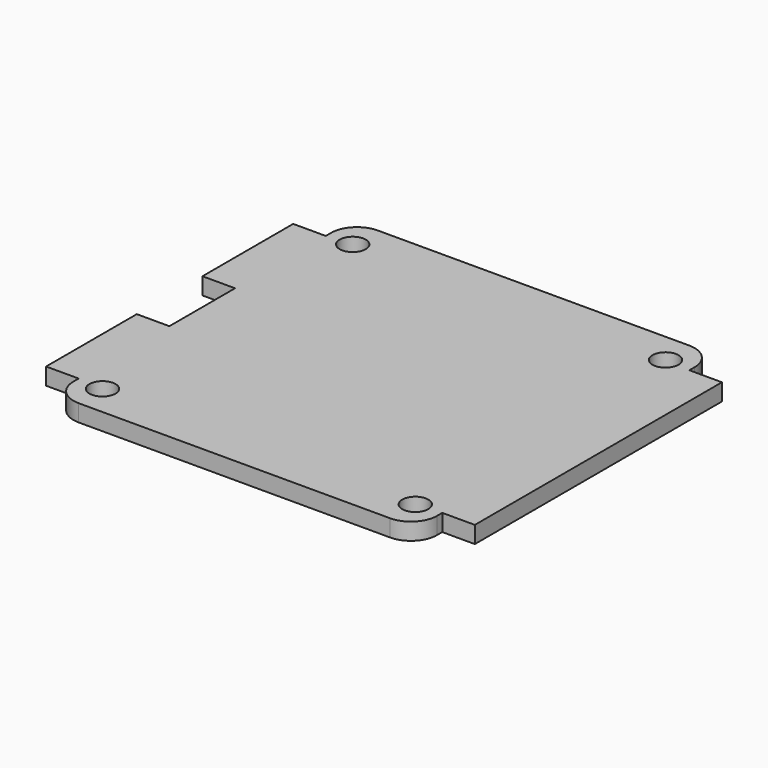
from build123d import *

# Parameters (mm, degrees)
F0_R     = 1.27
F1_DEPTH = 1.651


with BuildPart() as f1:
    # F0 (on Top) → F1 (new body)
    with BuildSketch(Plane.XY):
        with BuildLine():
            Line((-15.1765, -18.2245), (15.1765, -18.2245))
            ThreePointArc((15.1765, -18.2245), (16.972551, -17.480551), (17.7165, -15.6845))
            Line((17.7165, -15.6845), (17.7165, -15.0495))
            Line((17.7165, -15.0495), (20.8915, -15.0495))
            Line((20.8915, -15.0495), (20.8915, 15.0495))
            Line((20.8915, 15.0495), (17.7165, 15.0495))
            Line((17.7165, 15.0495), (17.7165, 15.6845))
            ThreePointArc((17.7165, 15.6845), (16.972551, 17.480551), (15.1765, 18.2245))
            Line((15.1765, 18.2245), (-15.1765, 18.2245))
            ThreePointArc((-15.1765, 18.2245), (-16.972551, 17.480551), (-17.7165, 15.6845))
            Line((-17.7165, 15.6845), (-17.7165, 15.0495))
            Line((-17.7165, 15.0495), (-20.8915, 15.0495))
            Line((-20.8915, 15.0495), (-20.8915, 4.0005))
            Line((-20.8915, 4.0005), (-17.7165, 4.0005))
            Line((-17.7165, 4.0005), (-17.7165, -4.0005))
            Line((-17.7165, -4.0005), (-20.8915, -4.0005))
            Line((-20.8915, -4.0005), (-20.8915, -15.0495))
            Line((-20.8915, -15.0495), (-17.7165, -15.0495))
            Line((-17.7165, -15.0495), (-17.7165, -15.6845))
            ThreePointArc((-17.7165, -15.6845), (-16.972551, -17.480551), (-15.1765, -18.2245))
        make_face()
        with Locations((-15.24, -15.24)):
            Circle(F0_R, mode=Mode.SUBTRACT)
        with Locations((15.24, -15.24)):
            Circle(F0_R, mode=Mode.SUBTRACT)
        with Locations((-15.24, 15.24)):
            Circle(F0_R, mode=Mode.SUBTRACT)
        with Locations((15.24, 15.24)):
            Circle(F0_R, mode=Mode.SUBTRACT)
    extrude(amount=F1_DEPTH)


solid = f1.part
